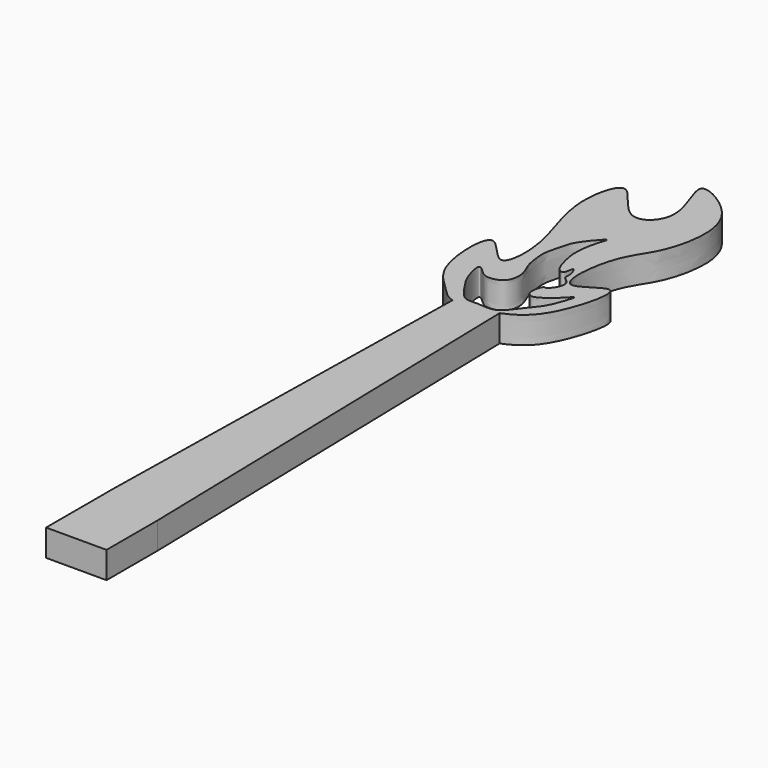
from build123d import *

# Parameters (mm, degrees)
F1_DEPTH = 25


with BuildPart() as f1:
    # F0 (on Top) → F1 (new body)
    with BuildSketch(Plane.XY):
        with BuildLine():
            add(Edge.make_bspline(
                [(-19.5736779145, 363.6819052511), (-9.3451100925, 360.8091911665), (7.1102567491, 364.0864194142), (20.0286897982, 369.2612978579)],
                knots=[0.9488344452, 0.9488344452, 0.9488344452, 0.9488344452, 1, 1, 1, 1], degree=3))
            add(Edge.make_bspline(
                [(20.0286897982, 369.2612978579), (33.4246161596, 374.6274510359), (53.3826597317, 390.037386752), (72.6815185011, 468.6619585731), (22.0444583264, 417.4852222537), (28.5027587505, 490.885765911), (50.2869130397, 515.1039077602), (61.5080272779, 555.0398240325), (55.7191551438, 597.640778663), (-5.5009339182, 631.5574137086), (34.6246911121, 568.6387448527), (-2.9663262438, 534.7842538274), (-33.7796287025, 599.6798567967), (-48.1267997586, 544.5685913845), (-33.176809357, 500.0494476443), (-22.354597122, 460.8287295644), (-29.1734432797, 421.7613552302), (-64.3307666591, 479.6086405469), (-63.1899082494, 398.3453804518), (-36.6079841661, 378.1494542932), (-27.0225001751, 365.773922139), (-19.5736779145, 363.6819052511)],
                knots=[0, 0, 0, 0, 0.0530567447, 0.110387001, 0.1540689835, 0.2093481711, 0.2591836085, 0.3091053493, 0.362947478, 0.4132100032, 0.4682724137, 0.5121721509, 0.5656007249, 0.6112073571, 0.6694693889, 0.7235297461, 0.7606237414, 0.8057719778, 0.8627002405, 0.9115737915, 0.9488344452, 0.9488344452, 0.9488344452, 0.9488344452], degree=3))
        make_face()
        with BuildLine():
            add(Edge.make_bspline(
                [(14.7897824758, 371.5351554009), (19.7624492278, 373.5769729955), (25.8243938532, 384.2471295718), (38.4569325297, 397.0306668478), (43.2021953802, 408.9675592647), (49.9838991542, 428.0820428222), (38.4698265207, 413.7948899151), (29.2194932169, 407.4314934188), (21.2065243841, 403.2183866715), (14.6807053953, 409.3093094413), (18.9722167779, 423.306556375), (21.8888150911, 419.9678071481), (29.8986072398, 431.013646883), (28.4626377168, 438.8430452488), (20.5738748681, 443.3332584197), (23.4049182591, 447.3483034811), (17.7793155894, 463.0190887362), (17.5121421831, 446.9485374536), (9.8156141458, 449.8347627648), (5.8815905942, 462.3953175569), (2.6917765472, 475.9030453079), (4.435158658, 492.8850487574), (7.4133000433, 503.0911203487), (10.9129496589, 513.2588341274), (-6.6420638658, 492.3137345514), (-9.3526379063, 483.5592385815), (-14.5658882256, 464.5169328728), (-13.3867292407, 454.9464476728), (-11.8872351643, 441.3709362337), (-4.4826027753, 429.226871244), (-6.0998550312, 413.331971787), (-16.0540379271, 408.0742247458), (-26.69980965, 408.0570578938), (-32.7650118858, 415.1814666256), (-39.5344925973, 419.8138917167), (-35.497627246, 401.3975191451), (-28.9843343063, 389.4396167388), (-18.8781238714, 375.6904253597), (-12.8373301658, 370.1058666729), (-2.8854946877, 371.7375777815), (9.6516736959, 369.4254059581), (14.7897824758, 371.5351554009)],
                knots=[0, 0, 0, 0, 0.0317691669, 0.0643189403, 0.0943851697, 0.1215834603, 0.1470383711, 0.1754578515, 0.1968377358, 0.2174120431, 0.244063287, 0.2544192188, 0.280785144, 0.3024490417, 0.3231921147, 0.339767128, 0.3639616936, 0.3862641728, 0.4030521088, 0.4308423405, 0.4604581256, 0.4922275218, 0.5190704922, 0.5353804611, 0.5700941678, 0.5973936999, 0.6304858823, 0.6550963188, 0.6830241644, 0.7125016771, 0.7416925265, 0.7663454952, 0.7906263195, 0.8147151992, 0.8305917083, 0.8594340227, 0.8907155111, 0.9222634324, 0.9432382738, 0.9671738639, 1, 1, 1, 1], degree=3))
        make_face(mode=Mode.SUBTRACT)
        with BuildLine():
            Line((29.7819599315, -43.3302088392), (20.0286897982, 369.2612978579))
            add(Edge.make_bspline(
                [(-19.5736779145, 363.6819052511), (-9.3451100925, 360.8091911665), (7.1102567491, 364.0864194142), (20.0286897982, 369.2612978579)],
                knots=[0.9488344452, 0.9488344452, 0.9488344452, 0.9488344452, 1, 1, 1, 1], degree=3))
            Line((-19.5736779145, 363.6819052511), (-26.7773131699, -24.9484354126))
            Line((-26.7773131699, -24.9484354126), (-26.7773131699, -102.7174498669))
            Line((-26.7773131699, -102.7174498669), (29.7819599315, -102.7174498669))
            Line((29.7819599315, -102.7174498669), (29.7819599315, -43.3302088392))
        make_face()
    extrude(amount=F1_DEPTH)


solid = f1.part
